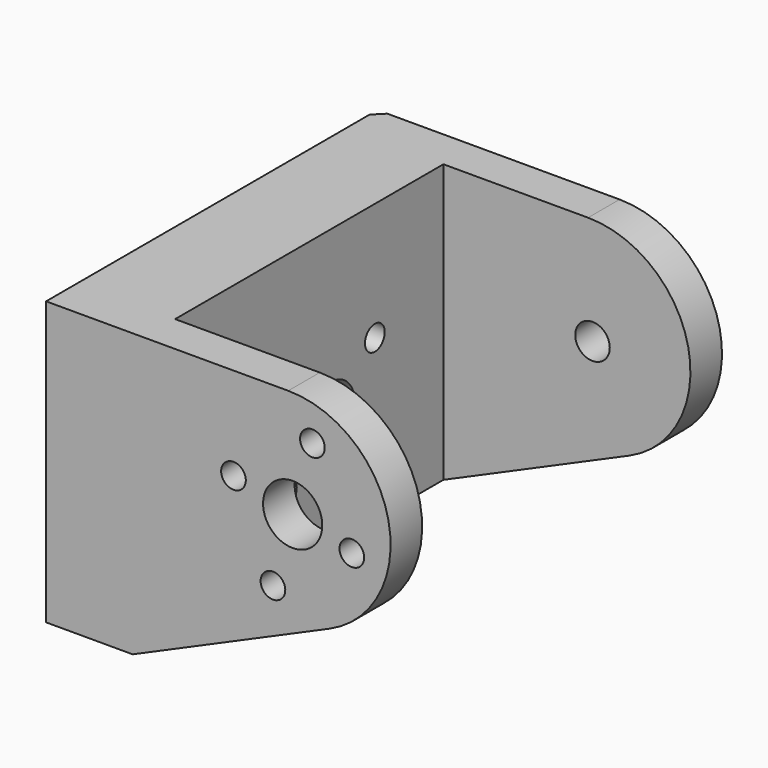
from build123d import *

# Parameters (mm, degrees)
CYLINDER067_R                        = 1.75
CYLINDER067_DEPTH                    = 22
CYLINDER067_PITCH_ANGLE              = 90
CYLINDER061_R                        = 1.25
CYLINDER061_DEPTH                    = 22
CYLINDER061_PITCH_ANGLE              = 90
CYLINDER062_R                        = 1.25
CYLINDER062_DEPTH                    = 22
CYLINDER062_PITCH_ANGLE              = 90
CYLINDER060_R                        = 1.25
CYLINDER060_DEPTH                    = 22
CYLINDER060_PITCH_ANGLE              = 90
CYLINDER059_R                        = 1.25
CYLINDER059_DEPTH                    = 22
CYLINDER059_PITCH_ANGLE              = 90
CYLINDER065_R                        = 1.25
CYLINDER065_DEPTH                    = 22
CYLINDER065_PITCH_ANGLE              = 90
CYLINDER066_R                        = 1.25
CYLINDER066_DEPTH                    = 22
CYLINDER066_PITCH_ANGLE              = 90
CYLINDER064_R                        = 1.25
CYLINDER064_DEPTH                    = 22
CYLINDER064_PITCH_ANGLE              = 90
CYLINDER063_R                        = 1.25
CYLINDER063_DEPTH                    = 22
CYLINDER063_PITCH_ANGLE              = 90
FUSION047_ROLL_ANGLE                 = 34
FUSION047_PLACEMENT_ANGLE            = -90
CYLINDER058_R                        = 3
CYLINDER058_DEPTH                    = 22
CYLINDER058_PITCH_ANGLE              = 90
CYLINDER057_R                        = 3
CYLINDER057_DEPTH                    = 13
CYLINDER057_ROLL_ANGLE               = 90
CYLINDER056_R                        = 10
CYLINDER056_DEPTH                    = 10
CYLINDER056_ROLL_ANGLE               = 90
PAD007_DEPTH                         = 34
PAD005_DEPTH                         = 42
CHAMFER104_SIZE                      = 1
CLONE020_PLACEMENT_ANGLE             = -90
PART_MIRRORING007012_PLACEMENT_ANGLE = 180


with BuildPart() as cilindro011:
    # Cylinder067 → Cylinder067 (new body)
    with BuildSketch(Plane.XY):
        Circle(CYLINDER067_R)
    extrude(amount=CYLINDER067_DEPTH)


with BuildPart() as cilindro011_1:
    # Cylinder067 pitch: moved
    add(cilindro011.part.rotate(Axis((0, 0, 0), (0, 1, 0)), CYLINDER067_PITCH_ANGLE))


with BuildPart() as cilindro011_2:
    # Cylinder067 placement: moved
    add(cilindro011_1.part.moved(Location((-4.75, -32, 125.75))))


with BuildPart() as cilindro005:
    # Cylinder061 → Cylinder061 (new body)
    with BuildSketch(Plane.XY):
        Circle(CYLINDER061_R)
    extrude(amount=CYLINDER061_DEPTH)


with BuildPart() as cilindro005_1:
    # Cylinder061 pitch: moved
    add(cilindro005.part.rotate(Axis((0, 0, 0), (0, 1, 0)), CYLINDER061_PITCH_ANGLE))


with BuildPart() as cilindro005_2:
    # Cylinder061 placement: moved
    add(cilindro005_1.part.moved(Location((20.25, -38, 124.25))))


with BuildPart() as cilindro006:
    # Cylinder062 → Cylinder062 (new body)
    with BuildSketch(Plane.XY):
        Circle(CYLINDER062_R)
    extrude(amount=CYLINDER062_DEPTH)


with BuildPart() as cilindro006_1:
    # Cylinder062 pitch: moved
    add(cilindro006.part.rotate(Axis((0, 0, 0), (0, 1, 0)), CYLINDER062_PITCH_ANGLE))


with BuildPart() as cilindro006_2:
    # Cylinder062 placement: moved
    add(cilindro006_1.part.moved(Location((20.25, -26, 127.25))))


with BuildPart() as cilindro004:
    # Cylinder060 → Cylinder060 (new body)
    with BuildSketch(Plane.XY):
        Circle(CYLINDER060_R)
    extrude(amount=CYLINDER060_DEPTH)


with BuildPart() as cilindro004_1:
    # Cylinder060 pitch: moved
    add(cilindro004.part.rotate(Axis((0, 0, 0), (0, 1, 0)), CYLINDER060_PITCH_ANGLE))


with BuildPart() as cilindro004_2:
    # Cylinder060 placement: moved
    add(cilindro004_1.part.moved(Location((20.25, -30, 118.75))))


with BuildPart() as fusion046:
    # Cylinder059 → Cylinder059 (new body)
    with BuildSketch(Plane.XY):
        Circle(CYLINDER059_R)
    extrude(amount=CYLINDER059_DEPTH)


with BuildPart() as fusion046_1:
    # Cylinder059 pitch: moved
    add(fusion046.part.rotate(Axis((0, 0, 0), (0, 1, 0)), CYLINDER059_PITCH_ANGLE))


with BuildPart() as fusion046_2:
    # Cylinder059 placement: moved
    add(fusion046_1.part.moved(Location((20.25, -34, 132.75))))

    # Fusion046: union Cilindro005, Cilindro006, Cilindro004
    add(cilindro005_2.part)
    add(cilindro006_2.part)
    add(cilindro004_2.part)


with BuildPart() as cilindro009:
    # Cylinder065 → Cylinder065 (new body)
    with BuildSketch(Plane.XY):
        Circle(CYLINDER065_R)
    extrude(amount=CYLINDER065_DEPTH)


with BuildPart() as cilindro009_1:
    # Cylinder065 pitch: moved
    add(cilindro009.part.rotate(Axis((0, 0, 0), (0, 1, 0)), CYLINDER065_PITCH_ANGLE))


with BuildPart() as cilindro009_2:
    # Cylinder065 placement: moved
    add(cilindro009_1.part.moved(Location((20.25, -38, 124.25))))


with BuildPart() as cilindro010:
    # Cylinder066 → Cylinder066 (new body)
    with BuildSketch(Plane.XY):
        Circle(CYLINDER066_R)
    extrude(amount=CYLINDER066_DEPTH)


with BuildPart() as cilindro010_1:
    # Cylinder066 pitch: moved
    add(cilindro010.part.rotate(Axis((0, 0, 0), (0, 1, 0)), CYLINDER066_PITCH_ANGLE))


with BuildPart() as cilindro010_2:
    # Cylinder066 placement: moved
    add(cilindro010_1.part.moved(Location((20.25, -26, 127.25))))


with BuildPart() as cilindro008:
    # Cylinder064 → Cylinder064 (new body)
    with BuildSketch(Plane.XY):
        Circle(CYLINDER064_R)
    extrude(amount=CYLINDER064_DEPTH)


with BuildPart() as cilindro008_1:
    # Cylinder064 pitch: moved
    add(cilindro008.part.rotate(Axis((0, 0, 0), (0, 1, 0)), CYLINDER064_PITCH_ANGLE))


with BuildPart() as cilindro008_2:
    # Cylinder064 placement: moved
    add(cilindro008_1.part.moved(Location((20.25, -30, 118.75))))


with BuildPart() as fusion047:
    # Cylinder063 → Cylinder063 (new body)
    with BuildSketch(Plane.XY):
        Circle(CYLINDER063_R)
    extrude(amount=CYLINDER063_DEPTH)


with BuildPart() as fusion047_1:
    # Cylinder063 pitch: moved
    add(fusion047.part.rotate(Axis((0, 0, 0), (0, 1, 0)), CYLINDER063_PITCH_ANGLE))


with BuildPart() as fusion047_2:
    # Cylinder063 placement: moved
    add(fusion047_1.part.moved(Location((20.25, -34, 132.75))))

    # Fusion047: union Cilindro009, Cilindro010, Cilindro008
    add(cilindro009_2.part)
    add(cilindro010_2.part)
    add(cilindro008_2.part)


with BuildPart() as fusion047_3:
    # Fusion047 roll: moved
    add(fusion047_2.part.rotate(Axis((0, 0, 0), (1, 0, 0)), FUSION047_ROLL_ANGLE))


with BuildPart() as fusion047_4:
    # Fusion047 placement: moved
    add(fusion047_3.part.moved(Location((114.107998, 21, 33.646227))).rotate(Axis((114.107998, 21, 33.646227), (0, 0, 1)), FUSION047_PLACEMENT_ANGLE))


with BuildPart() as cilindro002:
    # Cylinder058 → Cylinder058 (new body)
    with BuildSketch(Plane.XY):
        Circle(CYLINDER058_R)
    extrude(amount=CYLINDER058_DEPTH)


with BuildPart() as cilindro002_1:
    # Cylinder058 pitch: moved
    add(cilindro002.part.rotate(Axis((0, 0, 0), (0, 1, 0)), CYLINDER058_PITCH_ANGLE))


with BuildPart() as cilindro002_2:
    # Cylinder058 placement: moved
    add(cilindro002_1.part.moved(Location((20.25, -32, 125.75))))


with BuildPart() as cilindro001:
    # Cylinder057 → Cylinder057 (new body)
    with BuildSketch(Plane.XY):
        Circle(CYLINDER057_R)
    extrude(amount=CYLINDER057_DEPTH)


with BuildPart() as cilindro001_1:
    # Cylinder057 roll: moved
    add(cilindro001.part.rotate(Axis((0, 0, 0), (1, 0, 0)), CYLINDER057_ROLL_ANGLE))


with BuildPart() as cilindro001_2:
    # Cylinder057 placement: moved
    add(cilindro001_1.part.moved(Location((17.25, -6, 120))))


with BuildPart() as cilindro:
    # Cylinder056 → Cylinder056 (new body)
    with BuildSketch(Plane.XY):
        Circle(CYLINDER056_R)
    extrude(amount=CYLINDER056_DEPTH)


with BuildPart() as cilindro_1:
    # Cylinder056 roll: moved
    add(cilindro.part.rotate(Axis((0, 0, 0), (1, 0, 0)), CYLINDER056_ROLL_ANGLE))


with BuildPart() as cilindro_2:
    # Cylinder056 placement: moved
    add(cilindro_1.part.moved(Location((17.25, -4, 120))))


with BuildPart() as pad007:
    # Sketch012 → Pad007 (new body)
    with BuildSketch(Plane(origin=(3, -12, -1), x_dir=(0, 1, 0), z_dir=(1, 0, 0))):
        Polygon((-4.882067, 101.940956), (-4.882067, 138.559921), (-40.571098, 142.373672), (-40.571098, 120.688431), align=None)
    extrude(amount=PAD007_DEPTH)


with BuildPart() as right_shoulder:
    # Sketch010 → Pad005 (new body)
    with BuildSketch(Plane.YZ.offset(-1)):
        with BuildLine():
            Line((-35.729516, 116.76657), (-15.773906, 107.988197))
            Line((-15.773906, 107.988197), (-7.000344, 107.988197))
            Line((-7.000344, 107.988197), (-7.000344, 136.642965))
            Line((-7.000344, 136.642965), (-31.550963, 136.642965))
            ThreePointArc((-31.550963, 136.642965), (-41.706398, 128.400491), (-35.729516, 116.76657))
        make_face()
    extrude(amount=PAD005_DEPTH)

    # Cut085: cut Pad007
    add(pad007.part, mode=Mode.SUBTRACT)

    # Cut086: cut Cilindro
    add(cilindro_2.part, mode=Mode.SUBTRACT)

    # Cut087: cut Cilindro001
    add(cilindro001_2.part, mode=Mode.SUBTRACT)

    # Chamfer104
    chamfer104_edges = [right_shoulder.edges().sort_by_distance(p)[0] for p in [
        (-1, -7.000344, 122.315581),
    ]]
    chamfer(chamfer104_edges, length=CHAMFER104_SIZE)

    # Cut088: cut Cilindro002
    add(cilindro002_2.part, mode=Mode.SUBTRACT)

    # Cut089: cut Fusion047
    add(fusion047_4.part, mode=Mode.SUBTRACT)

    # Cut090: cut Fusion046
    add(fusion046_2.part, mode=Mode.SUBTRACT)

    # Cut091: cut Cilindro011
    add(cilindro011_2.part, mode=Mode.SUBTRACT)


with BuildPart() as right_shoulder_1:
    # Clone020 placement: moved
    add(right_shoulder.part.moved(Location((-275, 70, 2.5))).rotate(Axis((-275, 70, 2.5), (0, 0, 1)), CLONE020_PLACEMENT_ANGLE))


with BuildPart() as left_shoulder:
    # Part__Mirroring007012: instance of right-shoulder
    add(right_shoulder_1.part.mirror(Plane(origin=(0, 0, 0), x_dir=(1, 0, 0), z_dir=(0, 1, 0))))


with BuildPart() as left_shoulder_1:
    # Part__Mirroring007012 placement: moved
    add(left_shoulder.part.moved(Location((-478, 0, 0))).rotate(Axis((-478, 0, 0), (0, 0, 1)), PART_MIRRORING007012_PLACEMENT_ANGLE))


solid = left_shoulder_1.part
